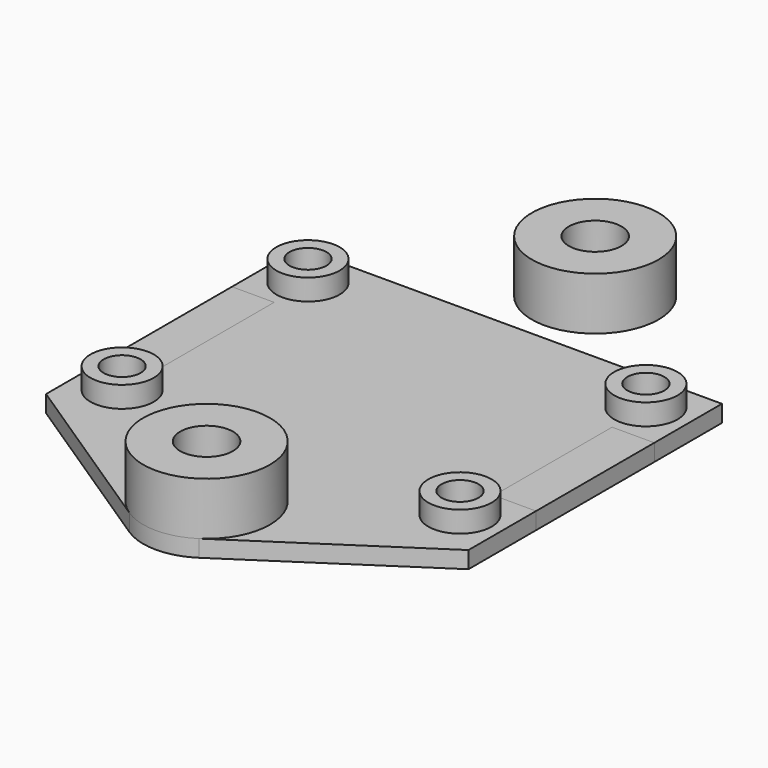
from build123d import *

# Parameters (mm, degrees)
SKETCH001_R   = 1.75
SKETCH001_R_2 = 2.5
PAD001_DEPTH  = 1.6
SKETCH002_R   = 3
SKETCH002_R_2 = 1.75
PAD002_DEPTH  = 2
SKETCH_R      = 1.75
SKETCH_R_2    = 2.5
PAD_DEPTH     = 1.6
SKETCH003_R   = 6
SKETCH003_R_2 = 2.5
PAD003_DEPTH  = 5
SKETCH004_R   = 6
SKETCH004_R_2 = 2.5
PAD004_DEPTH  = 5
SKETCH005_R   = 3
SKETCH005_R_2 = 1.75
PAD005_DEPTH  = 1.5


with BuildPart() as pad002:
    # Sketch001 → Pad001 (new body)
    with BuildSketch(Plane.XY):
        with BuildLine():
            Line((-20, 15), (20, 15))
            Line((20, 15), (20, -15))
            Line((3.3027522936, -26.0091743119), (20, -15))
            ThreePointArc((-3.3027522936, -26.0091743119), (0, -27), (3.3027522936, -26.0091743119))
            Line((-20, -15), (-3.3027522936, -26.0091743119))
            Line((-20, 15), (-20, -15))
        make_face()
        with Locations((-16, 11)):
            Circle(SKETCH001_R, mode=Mode.SUBTRACT)
        with Locations((16, 11)):
            Circle(SKETCH001_R, mode=Mode.SUBTRACT)
        with Locations((-16, -11)):
            Circle(SKETCH001_R, mode=Mode.SUBTRACT)
        with Locations((16, -11)):
            Circle(SKETCH001_R, mode=Mode.SUBTRACT)
        with Locations((0, -21)):
            Circle(SKETCH001_R_2, mode=Mode.SUBTRACT)
    extrude(amount=PAD001_DEPTH)

    # Sketch002 → Pad002 (new body)
    with BuildSketch(Plane.XY.offset(1.6)):
        with Locations((-16, 11)):
            Circle(SKETCH002_R)
        with Locations((-16, 11)):
            Circle(SKETCH002_R_2, mode=Mode.SUBTRACT)
        with Locations((16, 11)):
            Circle(SKETCH002_R)
        with Locations((16, 11)):
            Circle(SKETCH002_R_2, mode=Mode.SUBTRACT)
        with Locations((16, -11)):
            Circle(SKETCH002_R)
        with Locations((16, -11)):
            Circle(SKETCH002_R_2, mode=Mode.SUBTRACT)
        with Locations((-16, -11)):
            Circle(SKETCH002_R)
        with Locations((-16, -11)):
            Circle(SKETCH002_R_2, mode=Mode.SUBTRACT)
    extrude(amount=PAD002_DEPTH)


with BuildPart() as pad003:
    # Sketch → Pad (new body)
    with BuildSketch(Plane.XY):
        with BuildLine():
            Line((-20, 15), (20, 15))
            Line((20, 15), (20, 7))
            Line((20, 7), (16, 7))
            Line((16, 7), (16, -7))
            Line((16, -7), (20, -7))
            Line((20, -7), (20, -15))
            Line((3.3027522936, -26.0091743119), (20, -15))
            ThreePointArc((-3.3027522936, -26.0091743119), (0, -27), (3.3027522936, -26.0091743119))
            Line((-20, -15), (-3.3027522936, -26.009174312))
            Line((-20, -7), (-20, -15))
            Line((-16, -7), (-20, -7))
            Line((-16, 7), (-16, -7))
            Line((-20, 7), (-16, 7))
            Line((-20, 15), (-20, 7))
        make_face()
        with Locations((-16, 11)):
            Circle(SKETCH_R, mode=Mode.SUBTRACT)
        with Locations((16, 11)):
            Circle(SKETCH_R, mode=Mode.SUBTRACT)
        with Locations((-16, -11)):
            Circle(SKETCH_R, mode=Mode.SUBTRACT)
        with Locations((16, -11)):
            Circle(SKETCH_R, mode=Mode.SUBTRACT)
        with Locations((0, -21)):
            Circle(SKETCH_R_2, mode=Mode.SUBTRACT)
    extrude(amount=PAD_DEPTH)

    # Sketch003 → Pad003 (new body)
    with BuildSketch(Plane.XY.offset(1.6)):
        with Locations((0, -21)):
            Circle(SKETCH003_R)
        with Locations((0, -21)):
            Circle(SKETCH003_R_2, mode=Mode.SUBTRACT)
    extrude(amount=PAD003_DEPTH)


with BuildPart() as pad004:
    # Sketch004 → Pad004 (new body)
    with BuildSketch(Plane(origin=(0, 25, 0), x_dir=(1, 0, 0), z_dir=(0, 0, 1))):
        Circle(SKETCH004_R)
        Circle(SKETCH004_R_2, mode=Mode.SUBTRACT)
    extrude(amount=PAD004_DEPTH)


with BuildPart() as pad005:
    # Sketch005 → Pad005 (new body)
    with BuildSketch(Plane.XY):
        Circle(SKETCH005_R)
        Circle(SKETCH005_R_2, mode=Mode.SUBTRACT)
    extrude(amount=PAD005_DEPTH)


solid = Compound([pad002.part, pad003.part, pad004.part, pad005.part])
